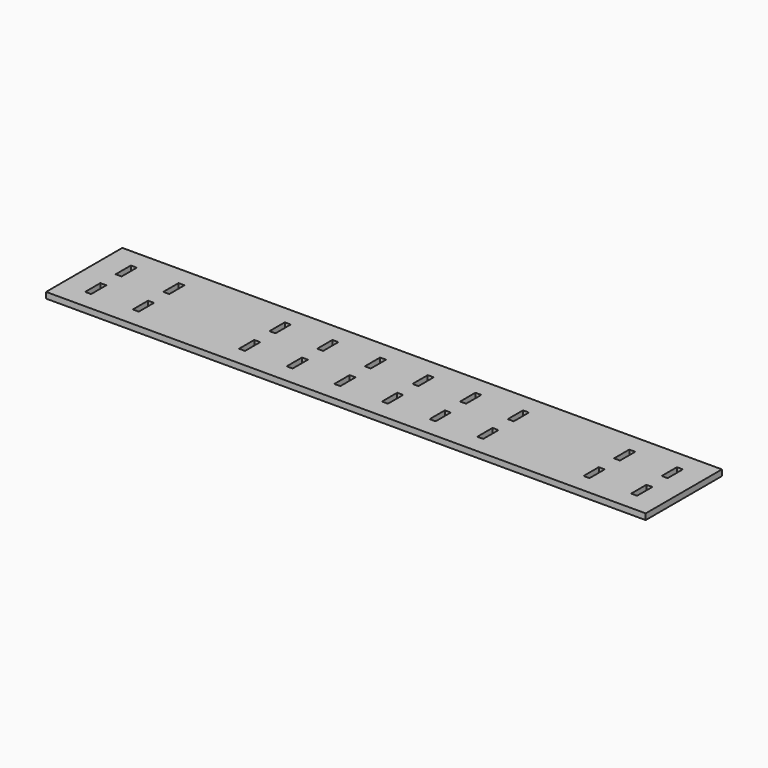
from build123d import *

# Parameters (mm, degrees)
F0_W     = 3.175
F0_H     = 10.16
F1_DEPTH = 3.175


with BuildPart() as f1:
    # F0 (on Top) → F1 (new body)
    with BuildSketch(Plane.XY):
        Polygon((-129.159, -28.17584), (190.5, -28.17584), (190.5, 22.624161), (177.8, 22.624161), (174.625, 22.624161), (152.4, 22.624161), (149.225, 22.624161), (-129.159, 22.624161), align=None)
        with Locations((-114.8715, -12.93584)):
            Rectangle(F0_W, F0_H, mode=Mode.SUBTRACT)
        with Locations((-89.4715, -12.93584)):
            Rectangle(F0_W, F0_H, mode=Mode.SUBTRACT)
        with Locations((-32.8295, -12.93584)):
            Rectangle(F0_W, F0_H, mode=Mode.SUBTRACT)
        with Locations((-7.4295, -12.93584)):
            Rectangle(F0_W, F0_H, mode=Mode.SUBTRACT)
        with Locations((17.9705, -12.93584)):
            Rectangle(F0_W, F0_H, mode=Mode.SUBTRACT)
        with Locations((43.3705, -12.93584)):
            Rectangle(F0_W, F0_H, mode=Mode.SUBTRACT)
        with Locations((68.7705, -12.93584)):
            Rectangle(F0_W, F0_H, mode=Mode.SUBTRACT)
        with Locations((94.1705, -12.93584)):
            Rectangle(F0_W, F0_H, mode=Mode.SUBTRACT)
        with Locations((150.8125, -12.93584)):
            Rectangle(F0_W, F0_H, mode=Mode.SUBTRACT)
        with Locations((176.2125, -12.93584)):
            Rectangle(F0_W, F0_H, mode=Mode.SUBTRACT)
        with Locations((-114.8715, 7.384161)):
            Rectangle(F0_W, F0_H, mode=Mode.SUBTRACT)
        with Locations((-89.4715, 7.384161)):
            Rectangle(F0_W, F0_H, mode=Mode.SUBTRACT)
        with Locations((-32.8295, 7.384161)):
            Rectangle(F0_W, F0_H, mode=Mode.SUBTRACT)
        with Locations((-7.4295, 7.384161)):
            Rectangle(F0_W, F0_H, mode=Mode.SUBTRACT)
        with Locations((17.9705, 7.384161)):
            Rectangle(F0_W, F0_H, mode=Mode.SUBTRACT)
        with Locations((43.3705, 7.384161)):
            Rectangle(F0_W, F0_H, mode=Mode.SUBTRACT)
        with Locations((68.7705, 7.384161)):
            Rectangle(F0_W, F0_H, mode=Mode.SUBTRACT)
        with Locations((94.1705, 7.384161)):
            Rectangle(F0_W, F0_H, mode=Mode.SUBTRACT)
        with Locations((150.8125, 7.384161)):
            Rectangle(F0_W, F0_H, mode=Mode.SUBTRACT)
        with Locations((176.2125, 7.384161)):
            Rectangle(F0_W, F0_H, mode=Mode.SUBTRACT)
    extrude(amount=F1_DEPTH)


solid = f1.part
